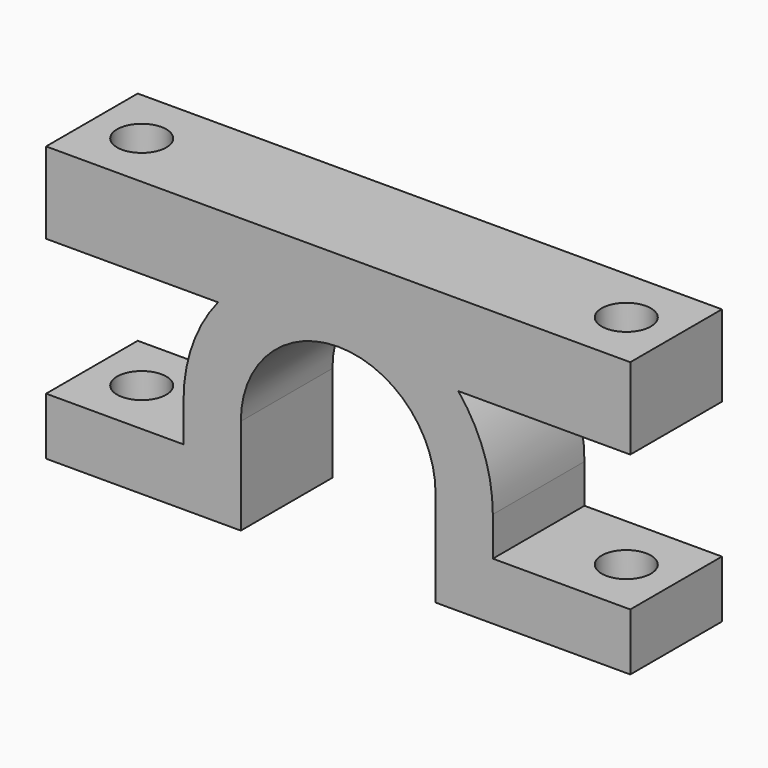
from build123d import *

# Parameters (mm, degrees)
F2_DEPTH = 10
F3_R     = 2.15
F4_DEPTH = 25


with BuildPart() as f2:
    # F1 (on Front) → F2 (new body)
    with BuildSketch(Plane.XZ):
        with BuildLine():
            Line((-25.5, -3.4), (-25.5, -8.4))
            Line((-25.5, -8.4), (-8.5, -8.4))
            Line((-8.5, -8.4), (-8.5, 0))
            ThreePointArc((-8.5, 0), (-6.0104076434, 6.0104076368), (-9.4e-09, 8.5))
            Line((-9.4e-09, 8.5), (-10.4880884817, 8.5))
            ThreePointArc((-10.4880884817, 8.5), (-12.7247631511, 4.5089247885), (-13.5, 0))
            Line((-13.5, 0), (-13.5, -3.4))
            Line((-13.5, -3.4), (-25.5, -3.4))
        make_face()
        with BuildLine():
            Line((10.4880884817, 8.5), (-9.4e-09, 8.5))
            ThreePointArc((-9.4e-09, 8.5), (6.0104076368, 6.0104076434), (8.5, 0))
            Line((8.5, 0), (8.5, -8.4))
            Line((8.5, -8.4), (25.5, -8.4))
            Line((25.5, -8.4), (25.5, -3.4))
            Line((25.5, -3.4), (13.5, -3.4))
            Line((13.5, -3.4), (13.5, 0))
            ThreePointArc((13.5, 0), (12.7247631511, 4.5089247885), (10.4880884817, 8.5))
        make_face()
        with BuildLine():
            Line((-10.4880884817, 8.5), (-9.4e-09, 8.5))
            Line((-9.4e-09, 8.5), (10.4880884817, 8.5))
            ThreePointArc((10.4880884817, 8.5), (0, 13.5), (-10.4880884817, 8.5))
        make_face()
        with BuildLine():
            Line((-25.5, 8.5), (-10.4880884817, 8.5))
            ThreePointArc((-10.4880884817, 8.5), (0, 13.5), (10.4880884817, 8.5))
            Line((10.4880884817, 8.5), (25.5, 8.5))
            Line((25.5, 8.5), (25.5, 15.6))
            Line((25.5, 15.6), (-25.5, 15.6))
            Line((-25.5, 15.6), (-25.5, 8.5))
        make_face()
    extrude(amount=F2_DEPTH)

    # F3 (on Top) → F4 (cut, symmetric)
    with BuildSketch(Plane.XY):
        with Locations((-21.15, -5)):
            Circle(F3_R)
        with Locations((21.15, -5)):
            Circle(F3_R)
    extrude(amount=F4_DEPTH, both=True, mode=Mode.SUBTRACT)


solid = f2.part
